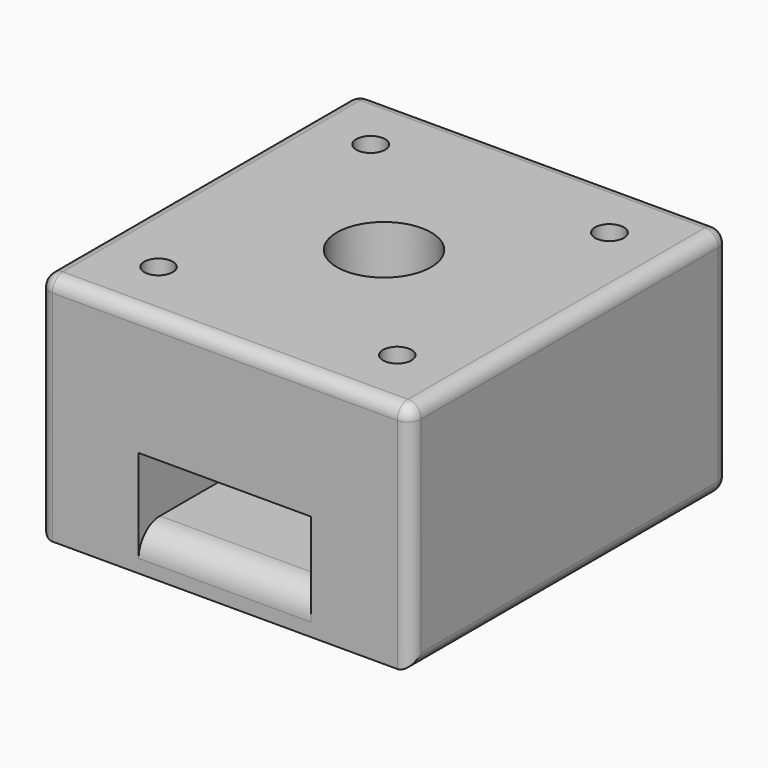
from build123d import *

# Parameters (mm, degrees)
SKETCH_W        = 28
SKETCH_H        = 17.5
SKETCH_W_2      = 13
SKETCH_H_2      = 5
PAD_DEPTH       = 30
SKETCH001_R     = 3.55
SKETCH001_R_2   = 1.075196
SKETCH001_R_3   = 1.087844
POCKET_DEPTH    = 106.725436
SKETCH002_W     = 13
SKETCH002_H     = 7.5
POCKET001_DEPTH = 5
FILLET_R        = 1
FILLET001_R     = 2


with BuildPart() as part:
    # Sketch → Pad (new body)
    with BuildSketch(Plane.XZ):
        Rectangle(SKETCH_W, SKETCH_H)
        with Locations((0, -3.25)):
            Rectangle(SKETCH_W_2, SKETCH_H_2, mode=Mode.SUBTRACT)
    extrude(amount=PAD_DEPTH)

    # Sketch001 (on DatumPlane) → Pocket (cut, through all)
    with BuildSketch(Plane(origin=(0, 0, 8.75), x_dir=(-1, 0, 0), z_dir=(0, 0, 1))):
        with Locations((0, 15)):
            Circle(SKETCH001_R)
        with Locations((9, 25)):
            Circle(SKETCH001_R_2)
        with Locations((9, 5)):
            Circle(SKETCH001_R_3)
    pocket = extrude(amount=-POCKET_DEPTH, mode=Mode.SUBTRACT)

    # Mirrored: Pocket across Sketch001 V_Axis
    add(pocket.mirror(Plane(origin=(0, 0, 8.75), x_dir=(0, 0, 1), z_dir=(-1, 0, 0))), mode=Mode.SUBTRACT)

    # Sketch002 (on Face1 of Mirrored) → Pocket001 (cut)
    with BuildSketch(Plane(origin=(0, 0, -8.75), x_dir=(1, 0, 0), z_dir=(0, 0, -1))):
        with Locations((0, 15)):
            Rectangle(SKETCH002_W, SKETCH002_H)
    extrude(amount=-POCKET001_DEPTH, mode=Mode.SUBTRACT)

    # Fillet
    fillet_edges = [part.edges().sort_by_distance(p)[0] for p in [
        (-14, -15, 8.75),
        (-14, -15, -8.75),
        (-14, 0, 0),
        (-14, -30, 0),
        (14, -15, -8.75),
        (14, -15, 8.75),
        (14, 0, 0),
        (14, -30, 0),
        (0, 0, -8.75),
        (0, 0, 8.75),
        (0, 0, -5.75),
        (6.5, 0, -3.25),
        (0, 0, -0.75),
        (-6.5, 0, -3.25),
        (0, -30, 8.75),
    ]]
    fillet(fillet_edges, radius=FILLET_R)

    # Fillet001
    fillet001_edges = [part.edges().sort_by_distance(p)[0] for p in [
        (0, -30, -5.75),
    ]]
    fillet(fillet001_edges, radius=FILLET001_R)


solid = part.part
